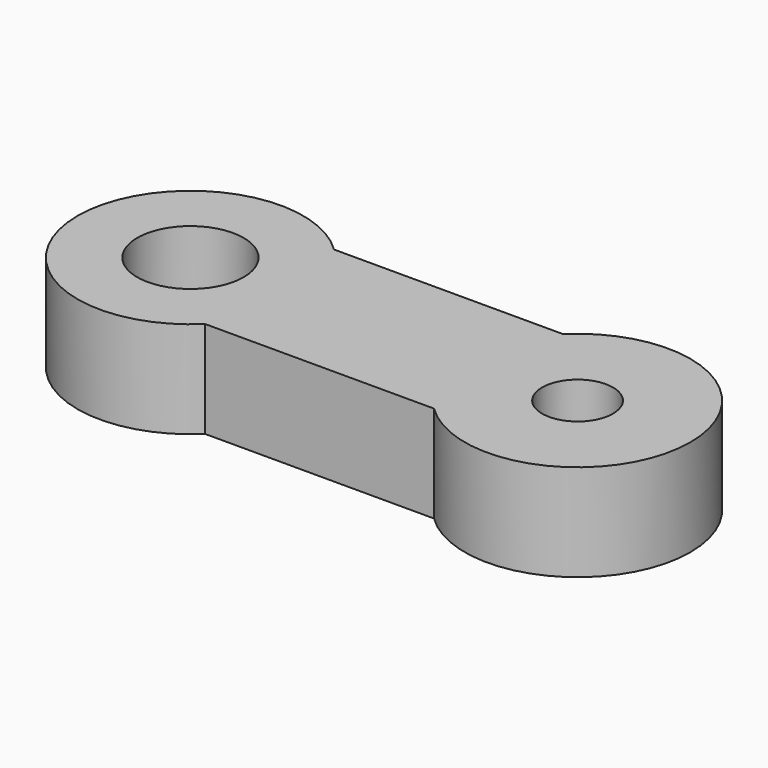
from build123d import *

# Parameters (mm, degrees)
F0_R     = 1.65
F0_R_2   = 1.1
F1_DEPTH = 3


with BuildPart() as f1:
    # F0 (on Top) → F1 (new body)
    with BuildSketch(Plane.XY):
        with BuildLine():
            Line((3.55051, 2.5), (-3.55051, 2.5))
            ThreePointArc((-3.55051, 2.5), (-9.5, 0), (-3.55051, -2.5))
            Line((-3.55051, -2.5), (3.55051, -2.5))
            ThreePointArc((3.55051, -2.5), (9.5, 0), (3.55051, 2.5))
        make_face()
        with Locations((-6, 0)):
            Circle(F0_R, mode=Mode.SUBTRACT)
        with Locations((6, 0)):
            Circle(F0_R_2, mode=Mode.SUBTRACT)
    extrude(amount=F1_DEPTH)


solid = f1.part
